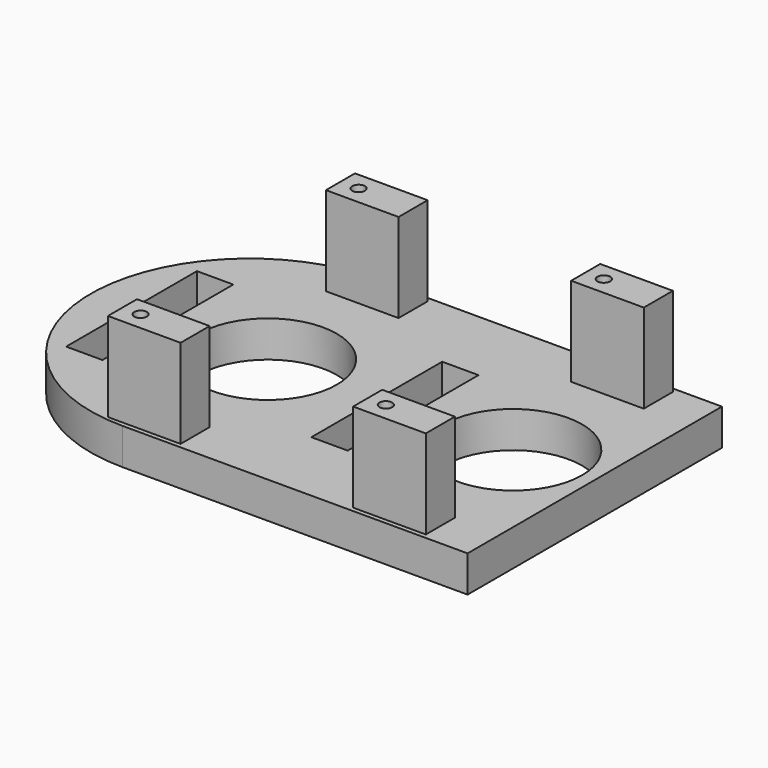
from build123d import *

# Parameters (mm, degrees)
PAD_DEPTH       = 4
SKETCH001_W     = 8
SKETCH001_H     = 4
PAD001_DEPTH    = 9.8
SKETCH002_R     = 7.6
POCKET_DEPTH    = 5
SKETCH003_R     = 0.7
POCKET001_DEPTH = 6
SKETCH004_W     = 4
SKETCH004_H     = 18
POCKET002_DEPTH = 5


with BuildPart() as part:
    # Sketch → Pad (new body)
    with BuildSketch(Plane.XY):
        with BuildLine():
            ThreePointArc((-3e-06, 17.5), (-17.5, -1.8e-05), (3.3e-05, -17.5))
            Line((3.3e-05, -17.5), (38, -17.5))
            Line((38, 17.500005), (38, -17.5))
            Line((-3e-06, 17.5), (38, 17.500005))
        make_face()
    extrude(amount=PAD_DEPTH)

    # Sketch001 → Pad001 (new body)
    with BuildSketch(Plane.XY.offset(4)):
        with Locations((2, 15)):
            Rectangle(SKETCH001_W, SKETCH001_H)
        with Locations((2, -15)):
            Rectangle(SKETCH001_W, SKETCH001_H)
        with Locations((29, 15)):
            Rectangle(SKETCH001_W, SKETCH001_H)
        with Locations((29, -15)):
            Rectangle(SKETCH001_W, SKETCH001_H)
    extrude(amount=PAD001_DEPTH)

    # Sketch002 → Pocket (cut)
    with BuildSketch(Plane.XY.offset(4)):
        with Locations((2, 0)):
            Circle(SKETCH002_R)
        with Locations((29, 0)):
            Circle(SKETCH002_R)
    extrude(amount=-POCKET_DEPTH, mode=Mode.SUBTRACT)

    # Sketch003 → Pocket001 (cut)
    with BuildSketch(Plane.XY.offset(13.8)):
        with Locations((0, 15)):
            Circle(SKETCH003_R)
        with Locations((27, 15)):
            Circle(SKETCH003_R)
        with Locations((27, -15)):
            Circle(SKETCH003_R)
        with Locations((0, -15)):
            Circle(SKETCH003_R)
    extrude(amount=-POCKET001_DEPTH, mode=Mode.SUBTRACT)

    # Sketch004 → Pocket002 (cut)
    with BuildSketch(Plane.XY.offset(4)):
        with Locations((-11, 0)):
            Rectangle(SKETCH004_W, SKETCH004_H)
        with Locations((16, 0)):
            Rectangle(SKETCH004_W, SKETCH004_H)
    extrude(amount=-POCKET002_DEPTH, mode=Mode.SUBTRACT)


solid = part.part
